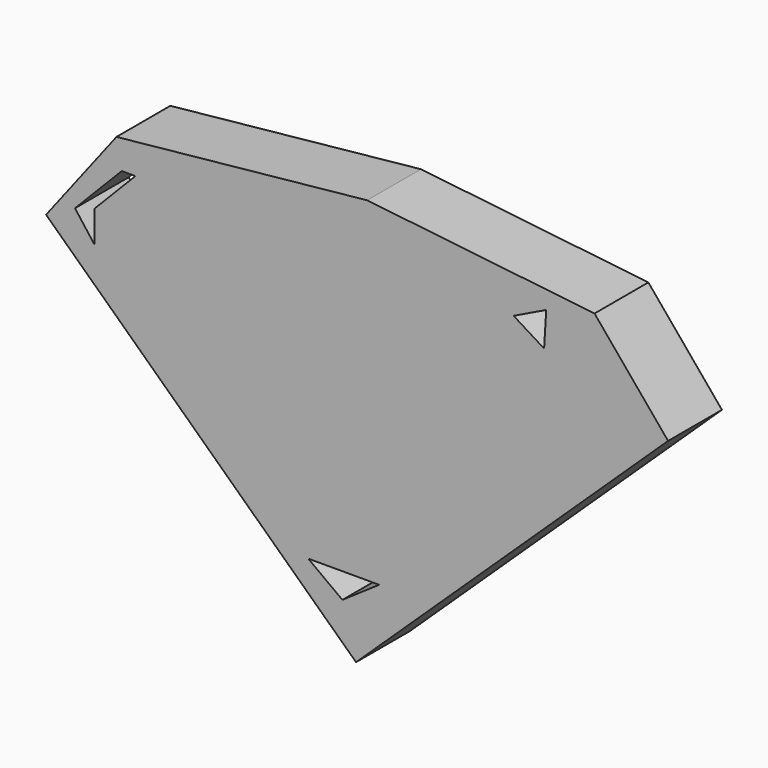
from build123d import *

# Parameters (mm, degrees)
F1_DEPTH = 4.85


with BuildPart() as f1:
    # F0 (on Front) → F1 (new body, symmetric)
    with BuildSketch(Plane.XZ):
        Polygon((-46.795674, 9.767168), (-2.120193, -32.485235), (42.858172, 10.221495), (32.257214, 22.942649), (-0.522655, 26.64674), (-36.649041, 22.942649), align=None)
        Polygon((-4.088943, -25.216006), (-9.006364, -21.581391), (1.211539, -21.581391), align=None, mode=Mode.SUBTRACT)
        Polygon((-39.829329, 12.796015), (-39.829329, 8.252745), (-42.626959, 11.94588), (-35.891827, 18.853707), (-33.923078, 18.853707), align=None, mode=Mode.SUBTRACT)
        Polygon((25.290867, 21.125343), (24.987981, 16.127745), (20.596154, 18.853707), align=None, mode=Mode.SUBTRACT)
    extrude(amount=F1_DEPTH, both=True)


solid = f1.part
